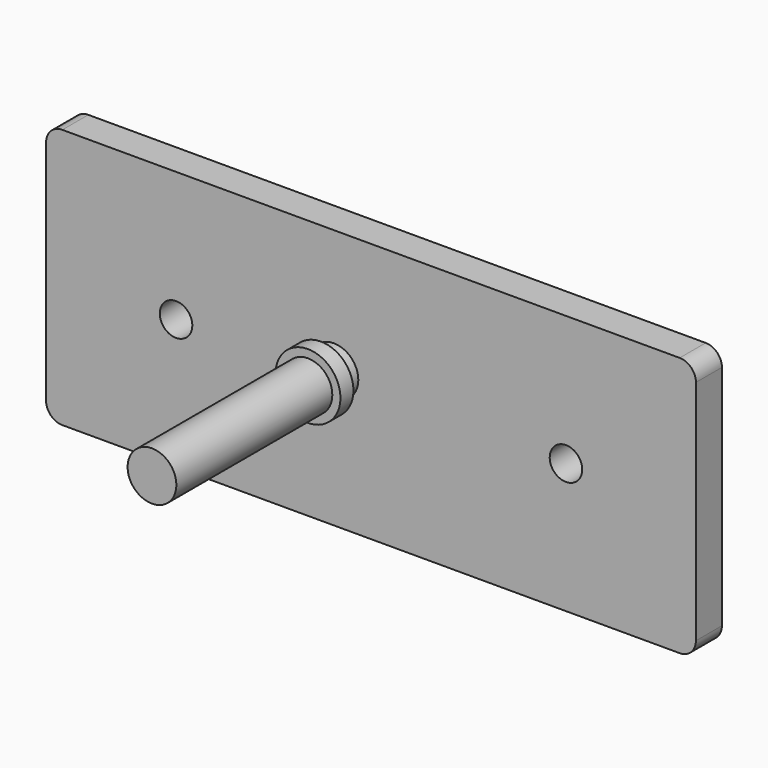
from build123d import *

# Parameters (mm, degrees)
F0_W      = 254
F0_H      = 101.6
F1_DEPTH  = 12.7
F3_D      = 12.7
F4_R      = 6.35
F5_R      = 12.7
F6_DEPTH  = 6.35
F7_R      = 9.525
F8_DEPTH  = 12.7
F9_R      = 12.7
F10_DEPTH = 6.35
F11_R     = 6.35
F12_DEPTH = 25.4
F13_R     = 9.525
F14_DEPTH = 76.2


with BuildPart() as f1:
    # F0 (on Front) → F1 (new body)
    with BuildSketch(Plane.XZ):
        with Locations((14.4870150834, -2.3577771693)):
            Rectangle(F0_W, F0_H)
    extrude(amount=F1_DEPTH)

    # F3 (through all)
    with Locations(Plane.XZ.offset(12.7)):
        with Locations((-61.7129849166, -2.3577771693), (90.6870150834, -2.3577771693)):
            Hole(F3_D / 2)

    # F4
    f4_edges = [f1.edges().sort_by_distance(p)[0] for p in [
        (-112.512985, -6.35, 48.442223),
        (-112.512985, -6.35, -53.157777),
        (141.487015, -6.35, 48.442223),
        (141.487015, -6.35, -53.157777),
    ]]
    fillet(f4_edges, radius=F4_R)


with BuildPart() as f6:
    # F5 (on Front) → F6 (new body)
    with BuildSketch(Plane.XZ):
        Circle(F5_R)
    extrude(amount=F6_DEPTH)

    # F7 (on face) → F8 (join)
    with BuildSketch(Plane.XZ.offset(6.35)):
        Circle(F7_R)
    extrude(amount=F8_DEPTH)

    # F9 (on face) → F10 (join)
    with BuildSketch(Plane.XZ.offset(19.05)):
        Circle(F9_R)
    extrude(amount=F10_DEPTH)


with BuildPart() as f12:
    # F11 (on Front) → F12 (new body)
    with BuildSketch(Plane.XZ):
        Circle(F11_R)
    extrude(amount=F12_DEPTH)

    # F13 (on face) → F14 (join)
    with BuildSketch(Plane.XZ.offset(25.4)):
        Circle(F13_R)
    extrude(amount=F14_DEPTH)


solid = Compound([f1.part, f6.part, f12.part])
